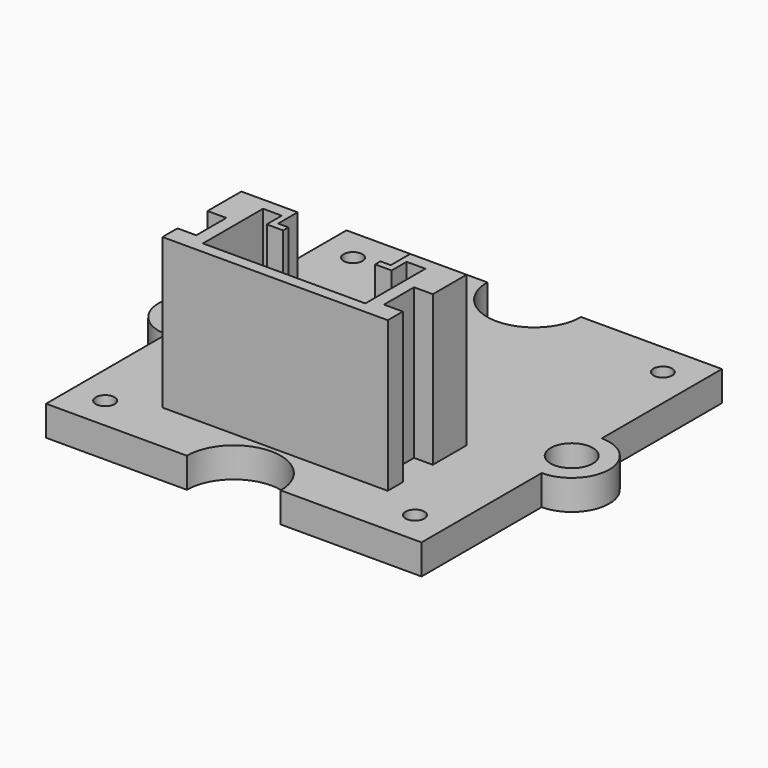
from build123d import *

# Parameters (mm, degrees)
PAD_DEPTH       = 1.6
SKETCH001_R     = 1.125
POCKET_DEPTH    = 1.601
SKETCH002_R     = 0.5
POCKET001_DEPTH = 1.601
SKETCH004_W     = 4
SKETCH004_H     = 4
PAD001_DEPTH    = 1
SKETCH005_W     = 12
SKETCH005_H     = 5.25
PAD002_DEPTH    = 8
POCKET002_DEPTH = 7
SKETCH007_W     = 6
SKETCH007_H     = 1.3
POCKET003_DEPTH = 8
SKETCH008_W     = 2
SKETCH008_H     = 2
POCKET004_DEPTH = 8.001
SKETCH009_W     = 4.9
SKETCH009_H     = 2
POCKET005_DEPTH = 3


with BuildPart() as obj1:
    # Sketch → Pad (new body)
    with BuildSketch(Plane.XY):
        with BuildLine():
            Line((-10, 10), (-2.5, 10))
            ThreePointArc((-2.5, 10), (0, 7.5), (2.5, 10))
            Line((2.5, 10), (10, 10))
            Line((10, 10), (10, 2))
            ThreePointArc((10, -2), (12, 0), (10, 2))
            Line((10, -2), (10, -10))
            Line((10, -10), (2.5, -10))
            ThreePointArc((2.5, -10), (0, -7.5), (-2.5, -10))
            Line((-2.5, -10), (-10, -10))
            Line((-10, -10), (-10, -2))
            ThreePointArc((-10, 2), (-12, 0), (-10, -2))
            Line((-10, 10), (-10, 2))
        make_face()
    extrude(amount=PAD_DEPTH)

    # Sketch001 → Pocket (cut, through all)
    with BuildSketch(Plane.XY):
        with Locations((-10, 0)):
            Circle(SKETCH001_R)
        with Locations((10, 0)):
            Circle(SKETCH001_R)
    extrude(amount=POCKET_DEPTH, mode=Mode.SUBTRACT)

    # Sketch002 → Pocket001 (cut, through all)
    with BuildSketch(Plane.XY):
        with Locations((-8.25, 8.25)):
            Circle(SKETCH002_R)
        with Locations((8.25, 8.25)):
            Circle(SKETCH002_R)
        with Locations((8.25, -8.25)):
            Circle(SKETCH002_R)
        with Locations((-8.25, -8.25)):
            Circle(SKETCH002_R)
    extrude(amount=POCKET001_DEPTH, mode=Mode.SUBTRACT)


with BuildPart() as rgbled:
    # Sketch004 → Pad001 (new body)
    with BuildSketch(Plane.XY):
        Rectangle(SKETCH004_W, SKETCH004_H)
    extrude(amount=-PAD001_DEPTH)


with BuildPart() as obj2:
    # Sketch005 (on DatumPlane) → Pad002 (new body)
    with BuildSketch(Plane.XY.offset(1.6)):
        with Locations((0, -4.625)):
            Rectangle(SKETCH005_W, SKETCH005_H)
    extrude(amount=PAD002_DEPTH)

    # Sketch006 (on DatumPlane) → Pocket002 (cut)
    with BuildSketch(Plane.XY.offset(9.6)):
        Polygon((4.325, -2.65), (4.325, -6.65), (-4.325, -6.65), (-4.325, -2.65), (-3.325, -2.65), (-3.325, -3.65), (3.325, -3.65), (3.325, -2.65), align=None)
    extrude(amount=-POCKET002_DEPTH, mode=Mode.SUBTRACT)

    # Sketch007 (on DatumPlane) → Pocket003 (cut)
    with BuildSketch(Plane.XY.offset(9.6)):
        with Locations((0, -2.65)):
            Rectangle(SKETCH007_W, SKETCH007_H)
    extrude(amount=-POCKET003_DEPTH, mode=Mode.SUBTRACT)

    # Sketch008 (on DatumPlane) → Pocket004 (cut, through all)
    with BuildSketch(Plane.XY.offset(9.6)):
        with Locations((-6, -5.25)):
            Rectangle(SKETCH008_W, SKETCH008_H)
        with Locations((6, -5.25)):
            Rectangle(SKETCH008_W, SKETCH008_H)
    extrude(amount=-POCKET004_DEPTH, mode=Mode.SUBTRACT)

    # Sketch009 (on DatumPlane) → Pocket005 (cut)
    with BuildSketch(Plane.XY.offset(9.6)):
        with Locations((0, -3.5)):
            Rectangle(SKETCH009_W, SKETCH009_H)
    extrude(amount=-POCKET005_DEPTH, mode=Mode.SUBTRACT)


solid = Compound([obj1.part, rgbled.part, obj2.part])
